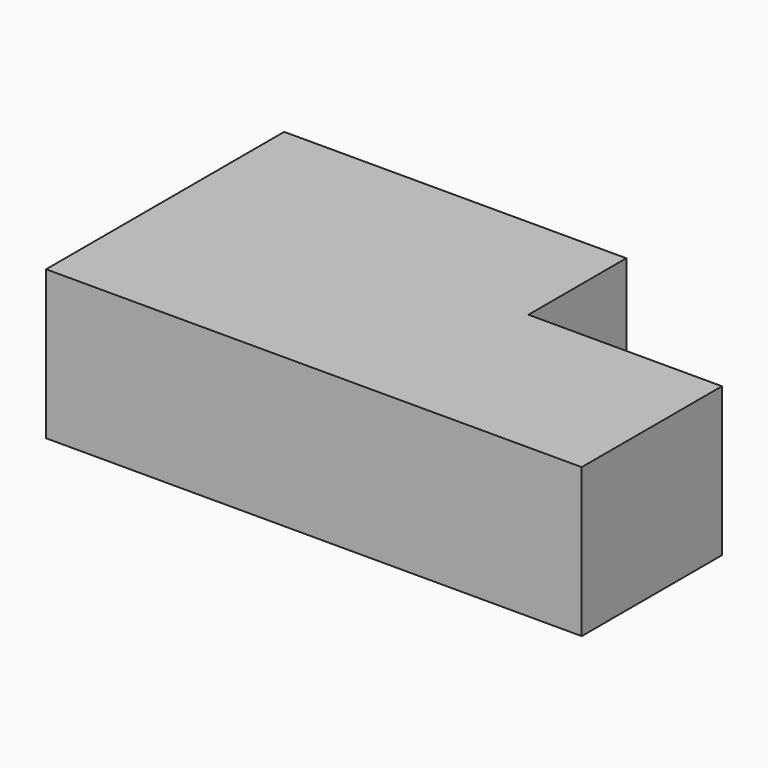
from build123d import *

# Parameters (mm, degrees)
F0_W     = 32.515021
F0_H     = 20.557327
F1_DEPTH = 25
F2_DEPTH = 25


with BuildPart() as f1:
    # F0 (on Top) → F1 (new body)
    with BuildSketch(Plane.XY):
        Polygon((-45, -25), (45, -25), (45, 4.442673), (12.484979, 4.442673), (12.484979, 25), (-45, 25), align=None)
        with Locations((28.742489, 14.721336)):
            Rectangle(F0_W, F0_H)
    extrude(amount=F1_DEPTH)

    # F0 (on Top) → F2 (cut)
    with BuildSketch(Plane.XY):
        with Locations((28.742489, 14.721336)):
            Rectangle(F0_W, F0_H)
    extrude(amount=F2_DEPTH, mode=Mode.SUBTRACT)


solid = f1.part
